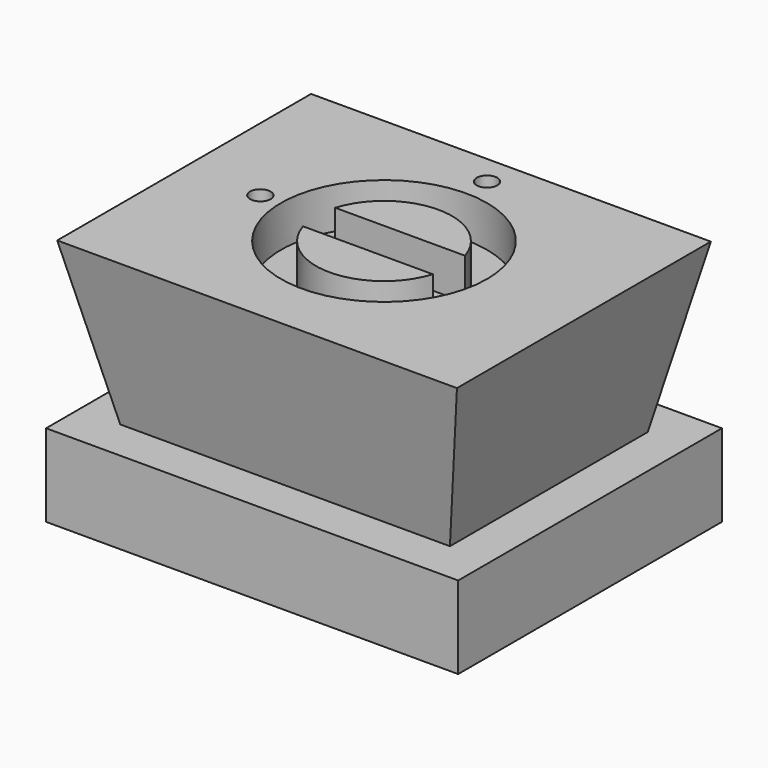
from build123d import *

# Parameters (mm, degrees)
F0_W      = 127
F0_H      = 101.6
F1_DEPTH  = 25.4
F2_W      = 101.6
F2_H      = 76.2
F3_DEPTH  = 50.8
F3_TAPER  = -12
F4_R      = 31.75
F5_DEPTH  = 12.7
F6_R      = 20.9296
F7_DEPTH  = 12.7
F8_R      = 3.175
F9_DEPTH  = 76.201
F11_DEPTH = 12.7


with BuildPart() as f1:
    # F0 (on Top) → F1 (new body)
    with BuildSketch(Plane.XY):
        Rectangle(F0_W, F0_H)
    extrude(amount=F1_DEPTH)

    # F2 (on face) → F3 (join)
    with BuildSketch(Plane.XY.offset(25.4)):
        Rectangle(F2_W, F2_H)
    extrude(amount=F3_DEPTH, taper=F3_TAPER)

    # F4 (on face) → F5 (cut)
    with BuildSketch(Plane.XY.offset(76.2)):
        Circle(F4_R)
    extrude(amount=-F5_DEPTH, mode=Mode.SUBTRACT)

    # F6 (on face) → F7 (join)
    with BuildSketch(Plane.XY.offset(63.5)):
        Circle(F6_R)
    extrude(amount=F7_DEPTH)

    # F8 (on face) → F9 (cut, through all)
    with BuildSketch(Plane.XY.offset(76.2)):
        with Locations((-38.1, 0)):
            Circle(F8_R)
        with Locations((0, 39.6875)):
            Circle(F8_R)
    extrude(amount=-F9_DEPTH, mode=Mode.SUBTRACT)

    # F10 (on face) → F11 (cut)
    with BuildSketch(Plane.XY.offset(76.2)):
        with BuildLine():
            ThreePointArc((19.991276409, -6.1965332), (20.9296, 0), (19.991276409, 6.1965332))
            Line((19.991276409, 6.1965332), (-19.991276409, 6.1965332))
            ThreePointArc((-19.991276409, 6.1965332), (-20.9296, 0), (-19.991276409, -6.1965332))
            Line((-19.991276409, -6.1965332), (19.991276409, -6.1965332))
        make_face()
    extrude(amount=-F11_DEPTH, mode=Mode.SUBTRACT)


solid = f1.part
